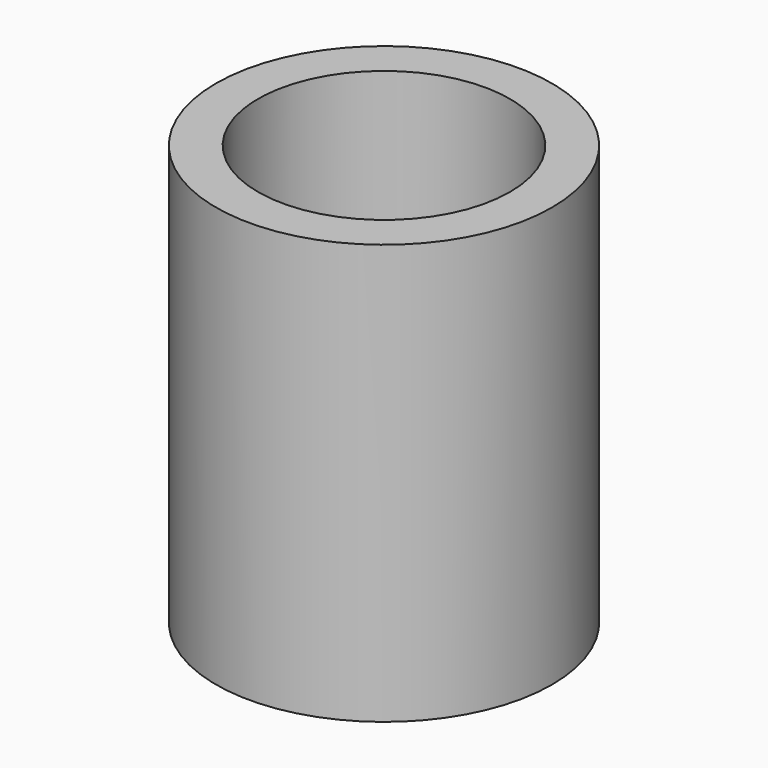
from build123d import *

# Parameters (mm, degrees)
CYLINDER_R        = 1.5
CYLINDER_DEPTH    = 5
CYLINDER001_R     = 2
CYLINDER001_DEPTH = 5


with BuildPart() as cylinderouter:
    # Cylinder → Cylinder (new body)
    with BuildSketch(Plane(origin=(8, -26, -23), x_dir=(1, 0, 0), z_dir=(0, 0, 1))):
        Circle(CYLINDER_R)
    extrude(amount=CYLINDER_DEPTH)


with BuildPart() as obj1:
    # Cylinder001 → Cylinder001 (new body)
    with BuildSketch(Plane(origin=(8, -26, -23), x_dir=(1, 0, 0), z_dir=(0, 0, 1))):
        Circle(CYLINDER001_R)
    extrude(amount=CYLINDER001_DEPTH)

    # Cut001: cut CylinderOuter
    add(cylinderouter.part, mode=Mode.SUBTRACT)


solid = obj1.part
